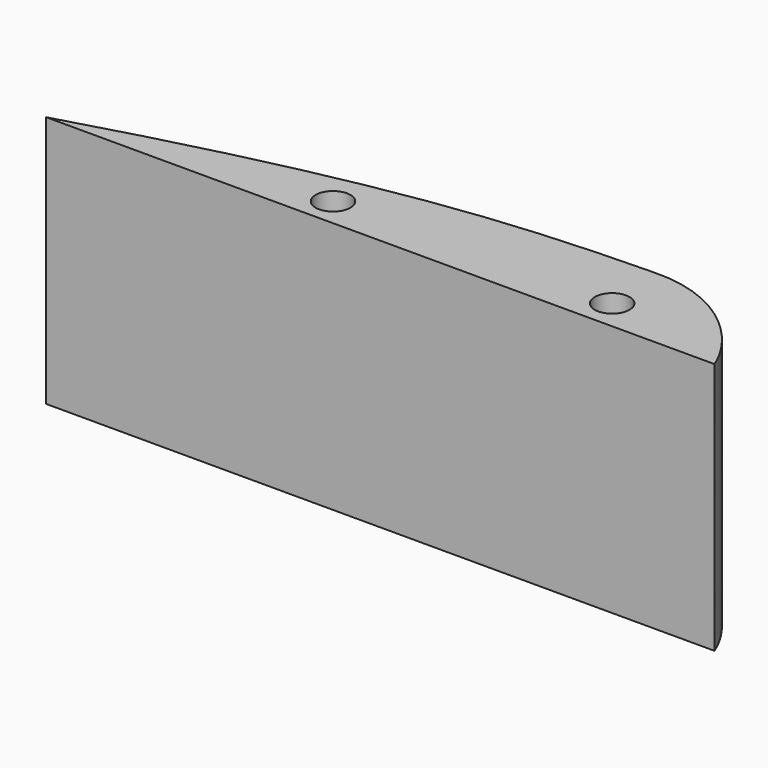
from build123d import *

# Parameters (mm, degrees)
F0_R     = 3.5
F1_DEPTH = 50.8


with BuildPart() as f1:
    # F0 (on Top) → F1 (new body)
    with BuildSketch(Plane.XY):
        with BuildLine():
            add(Edge.make_bspline(
                [(-60.727015, 0), (-6.678293, 15.829317), (18.438485, 17.843956), (46.355639, 18.419569)],
                knots=[0, 0, 0, 0, 108.655305, 108.655305, 108.655305, 108.655305], degree=3))
            Line((-60.727015, 0), (73.772119, 0))
            add(Edge.make_bspline(
                [(46.355639, 18.419569), (61.652482, 19.117288), (71.317069, 6.619532), (73.772119, 0)],
                knots=[0, 0, 0, 0, 33.029441, 33.029441, 33.029441, 33.029441], degree=3))
        make_face()
        with Locations((-7.635186, 5.816073)):
            Circle(F0_R, mode=Mode.SUBTRACT)
        with Locations((48.322952, 6.087539)):
            Circle(F0_R, mode=Mode.SUBTRACT)
    extrude(amount=F1_DEPTH)


solid = f1.part
